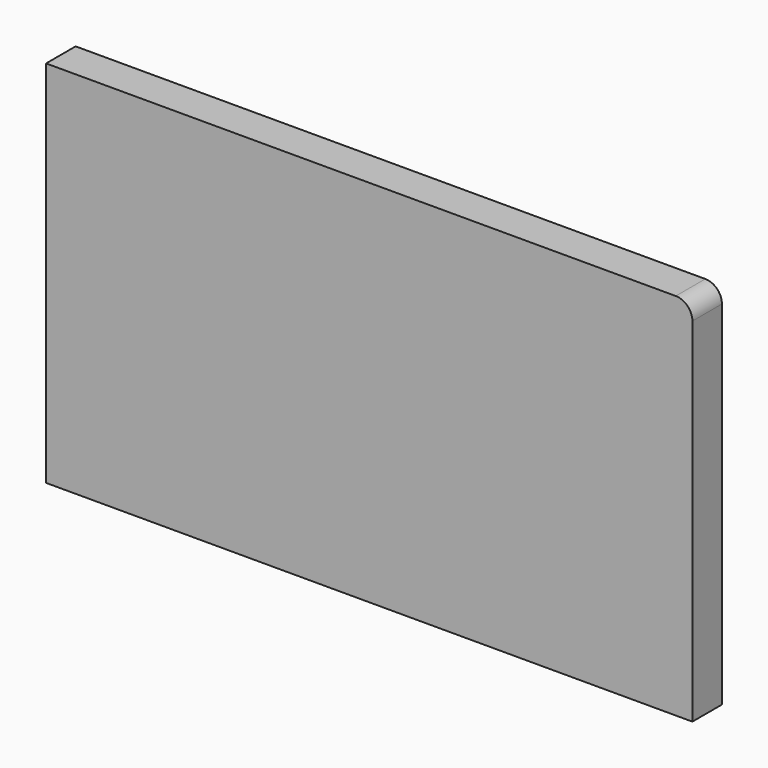
from build123d import *

# Parameters (mm, degrees)
F0_W     = 350
F0_H     = 200
F1_DEPTH = 20
F2_R     = 9


with BuildPart() as f1:
    # F0 (on Front) → F1 (new body)
    with BuildSketch(Plane.XZ):
        Rectangle(F0_W, F0_H)
    extrude(amount=F1_DEPTH)

    # F2
    f2_edges = [f1.edges().sort_by_distance(p)[0] for p in [
        (175, -10, 100),
    ]]
    fillet(f2_edges, radius=F2_R)


solid = f1.part
